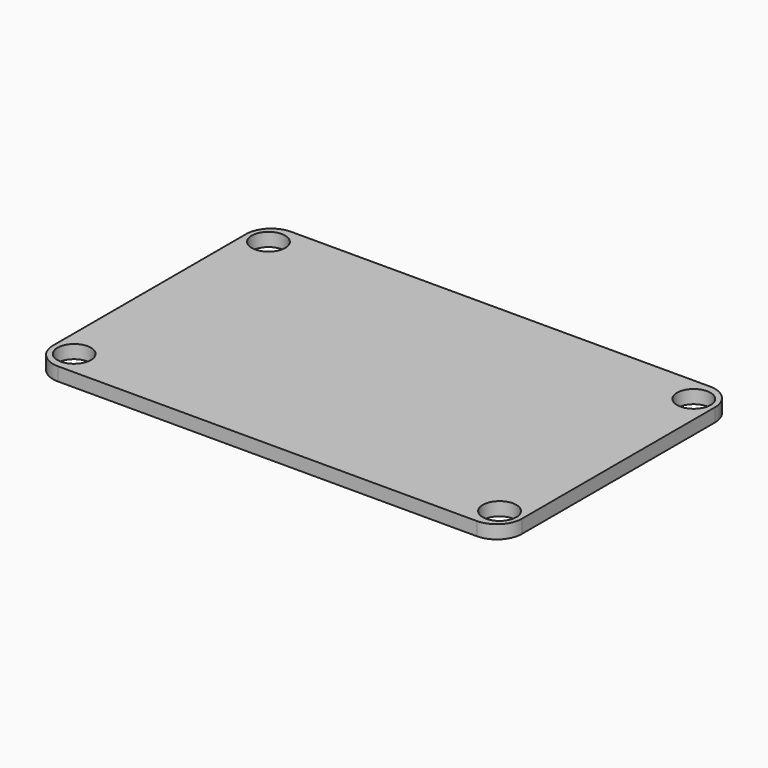
from build123d import *

# Parameters (mm, degrees)
SKETCH_W     = 56
SKETCH_H     = 34.8
PAD_DEPTH    = 1.6
SKETCH003_R  = 2
POCKET_DEPTH = 1.601
FILLET_R     = 3


with BuildPart() as part:
    # Sketch → Pad (new body)
    with BuildSketch(Plane.XY):
        Rectangle(SKETCH_W, SKETCH_H)
    extrude(amount=PAD_DEPTH)

    # Sketch003 → Pocket (cut, through all)
    with BuildSketch(Plane.XY.offset(1.6)):
        with Locations((-25.4, -14.5)):
            Circle(SKETCH003_R)
        with Locations((-25.4, 14.5)):
            Circle(SKETCH003_R)
        with Locations((25.4, 14.5)):
            Circle(SKETCH003_R)
        with Locations((25.4, -14.5)):
            Circle(SKETCH003_R)
    extrude(amount=-POCKET_DEPTH, mode=Mode.SUBTRACT)

    # Fillet
    fillet_edges = [part.edges().sort_by_distance(p)[0] for p in [
        (-28, -17.4, 0.8),
        (28, -17.4, 0.8),
        (28, 17.4, 0.8),
        (-28, 17.4, 0.8),
    ]]
    fillet(fillet_edges, radius=FILLET_R)


solid = part.part
